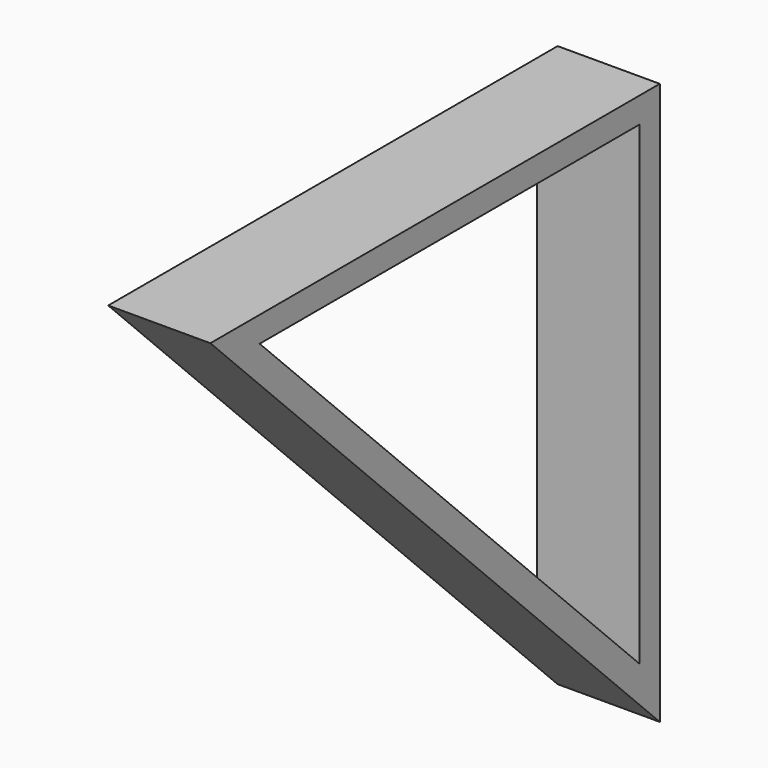
from build123d import *

# Parameters (mm, degrees)
F0_W          = 12.7
F0_H          = 12.7
F1_DEPTH      = 25.4
F1_DEPTH_BACK = 25.4
F2_DEPTH      = 25.4


with BuildPart() as f1:
    # F0 (on Right) → F1 (new body, two sides)
    with BuildSketch(Plane.YZ) as f1_sk:
        with Locations((6.35, -0.3065654278)):
            Rectangle(F0_W, F0_H)
        Polygon((0, -6.6565654278), (0, 6.0434345722), (-254, 6.0434345722), (-254, -6.6565654278), (-236.0394877579, -6.6565654278), align=None)
        Polygon((12.7, -6.6565654278), (0, -6.6565654278), (0, -242.6960531856), (0, -260.1933913213), (12.7, -260.6565654278), align=None)
        Polygon((-254, -6.6565654278), (-254, 6.0434345722), (-266.7, 6.0434345722), align=None)
        Polygon((0, -260.1933913213), (0, -242.6960531856), (-236.0394877579, -6.6565654278), (-254, -6.6565654278), (-0.4807056342, -260.1758597936), align=None)
        Polygon((12.7, -273.3565654278), (12.7, -260.6565654278), (0, -260.6565654278), align=None)
        Polygon((0, -260.6565654278), (12.7, -260.6565654278), (0, -260.1933913213), align=None)
        Polygon((0, -260.6565654278), (0, -260.1933913213), (-0.4807056342, -260.1758597936), align=None)
    extrude(amount=F1_DEPTH)
    extrude(f1_sk.sketch, amount=-F1_DEPTH_BACK)

    # F0 (on Right) → F2 (join)
    with BuildSketch(Plane.YZ):
        with Locations((6.35, -0.3065654278)):
            Rectangle(F0_W, F0_H)
        Polygon((0, -6.6565654278), (0, 6.0434345722), (-254, 6.0434345722), (-254, -6.6565654278), (-236.0394877579, -6.6565654278), align=None)
        Polygon((12.7, -6.6565654278), (0, -6.6565654278), (0, -242.6960531856), (0, -260.1933913213), (12.7, -260.6565654278), align=None)
        Polygon((-254, -6.6565654278), (-254, 6.0434345722), (-266.7, 6.0434345722), align=None)
        Polygon((0, -260.1933913213), (0, -242.6960531856), (-236.0394877579, -6.6565654278), (-254, -6.6565654278), (-0.4807056342, -260.1758597936), align=None)
        Polygon((12.7, -273.3565654278), (12.7, -260.6565654278), (0, -260.6565654278), align=None)
        Polygon((0, -260.6565654278), (12.7, -260.6565654278), (0, -260.1933913213), align=None)
        Polygon((0, -260.6565654278), (0, -260.1933913213), (-0.4807056342, -260.1758597936), align=None)
    extrude(amount=F2_DEPTH)


solid = f1.part
